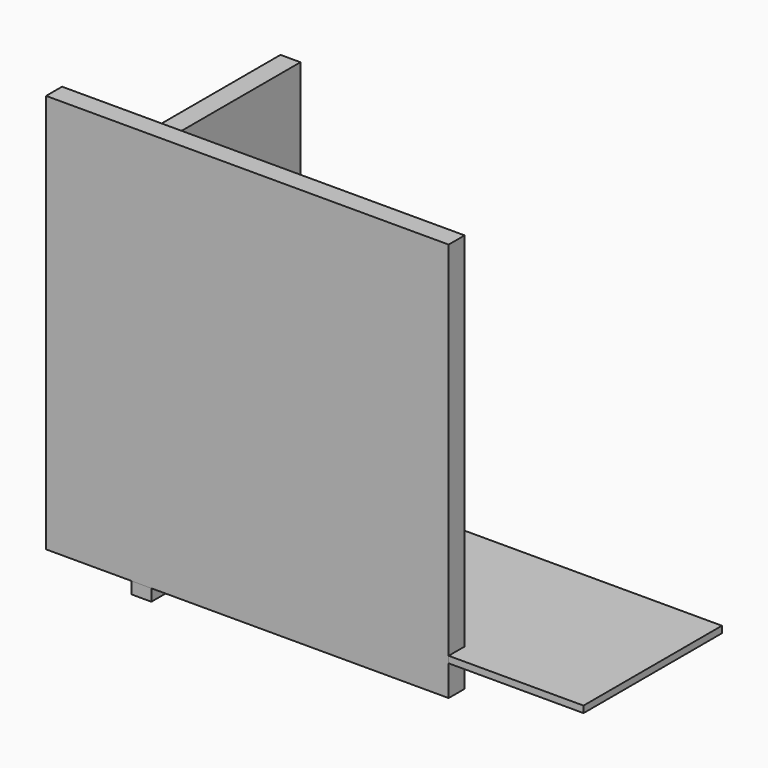
from build123d import *

# Parameters (mm, degrees)
F0_W     = 76.2
F0_H     = 1524
F3_DEPTH = 711.2
F1_W     = 1536.7
F1_H     = 25.4
F4_DEPTH = 660.4
F2_W     = 1536.7
F2_H     = 1524
F5_DEPTH = 76.2


with BuildPart() as f3:
    # F0 (on Front) → F3 (new body)
    with BuildSketch(Plane.XZ):
        with Locations((-59.650892, 564.371335)):
            Rectangle(F0_W, F0_H)
    extrude(amount=-F3_DEPTH)


with BuildPart() as f4:
    # F1 (on Front) → F4 (new body)
    with BuildSketch(Plane.XZ):
        with Locations((859.637418, -22.799921)):
            Rectangle(F1_W, F1_H)
    extrude(amount=-F4_DEPTH)


with BuildPart() as f5:
    # F2 (on Front) → F5 (new body)
    with BuildSketch(Plane.XZ):
        with Locations((344.782765, 609.662464)):
            Rectangle(F2_W, F2_H)
    extrude(amount=-F5_DEPTH)


solid = Compound([f3.part, f4.part, f5.part])
